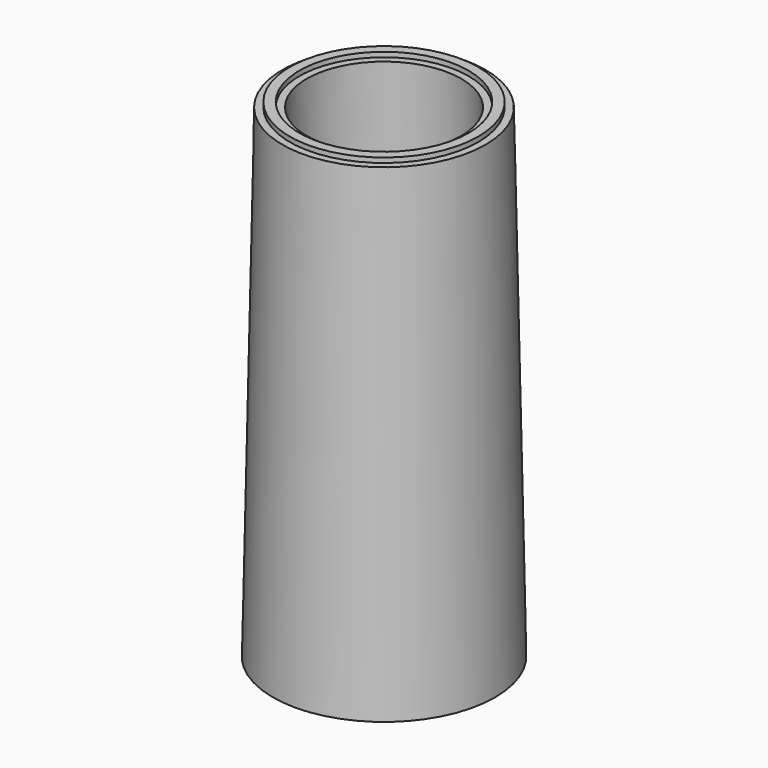
from build123d import *

# Parameters (mm, degrees)
F0_W = 2
F0_H = 1


with BuildPart() as f1:
    # F0 (on Front) → F1 (revolve)
    with BuildSketch(Plane.XZ):
        Polygon((16, 100), (18, 0), (19.5, 0), (19.5, 1), (21.5, 1), (21.5, 0), (23, 0), (21, 100), (19.5, 100), (17.5, 100), align=None)
        with Locations((18.5, 100.5)):
            Rectangle(F0_W, F0_H)
    revolve(axis=Axis((0, 0, 83.813059), (0, 0, 1)))

    # F0 (on Front) → F2 (revolve, cut)
    with BuildSketch(Plane.XZ):
        with Locations((20.5, 0.5)):
            Rectangle(F0_W, F0_H)
    revolve(axis=Axis((0, 0, 83.813059), (0, 0, 1)), mode=Mode.SUBTRACT)


solid = f1.part
